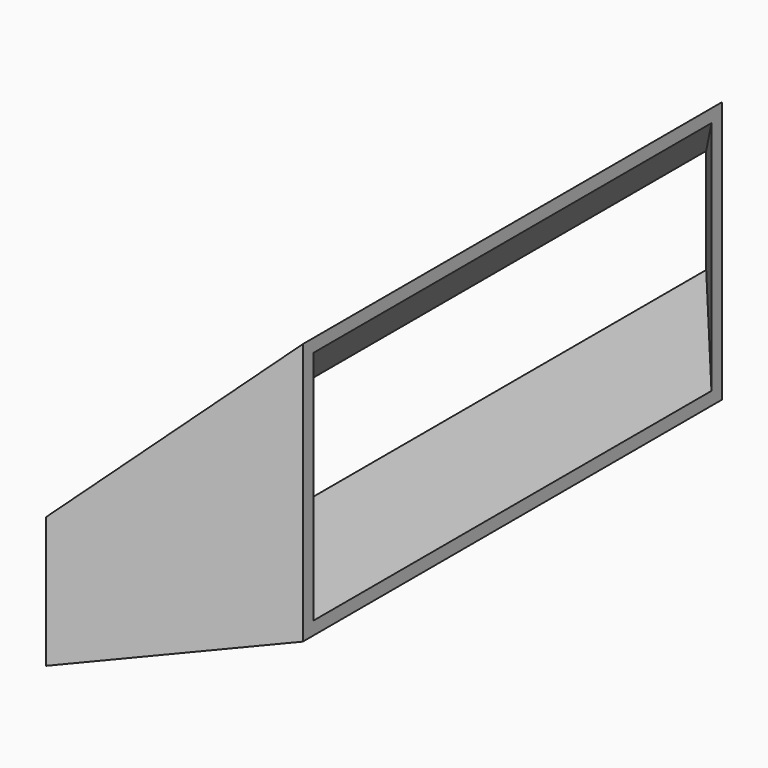
from build123d import *

# Parameters (mm, degrees)
F0_W = 32
F0_H = 5
F2_W = 20
F2_H = 10
F4_W = 31
F4_H = 4
F5_W = 19
F5_H = 9


with BuildPart() as f3:
    # F0 (on Right) → F3 section 0
    with BuildSketch(Plane.YZ):
        with Locations((0, 2.5)):
            Rectangle(F0_W, F0_H)
    # F2 (on offset) → F3 section 1
    with BuildSketch(Plane.YZ.offset(5)):
        with Locations((0, 5)):
            Rectangle(F2_W, F2_H)
    loft()

    # F4 (on Right) → F6 section 0
    with BuildSketch(Plane.YZ):
        with Locations((0, 2.5)):
            Rectangle(F4_W, F4_H)
    # F5 (on offset) → F6 section 1
    with BuildSketch(Plane.YZ.offset(5)):
        with Locations((0, 5)):
            Rectangle(F5_W, F5_H)
    loft(mode=Mode.SUBTRACT)


solid = f3.part
